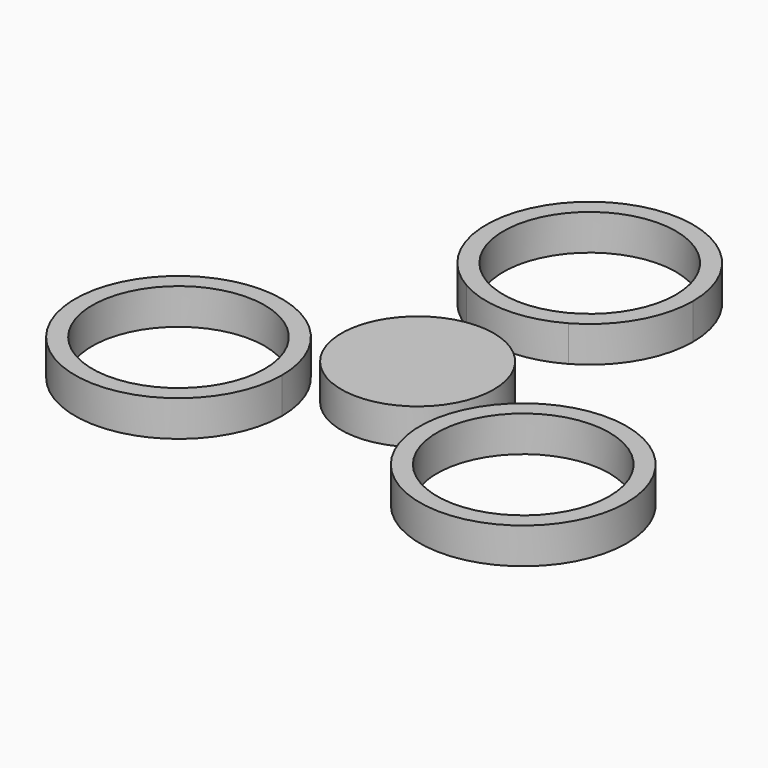
from build123d import *

# Parameters (mm, degrees)
F0_R     = 12.5
F0_R_2   = 15
F0_R_3   = 11.05
F1_DEPTH = 5.2


with BuildPart() as f1:
    # F0 (on Top) → F1 (new body)
    with BuildSketch(Plane.XY):
        with BuildLine():
            ThreePointArc((7.272041, 17.968416), (12.862939, 23.469045), (14.913441, 31.039415))
            ThreePointArc((14.913441, 31.039415), (-7.61833, 44.011401), (-7.522882, 18.012478))
            ThreePointArc((-7.522882, 18.012478), (-0.131231, 16.039482), (7.272041, 17.968416))
        make_face()
        with Locations((-0.086559, 31.039415)):
            Circle(F0_R, mode=Mode.SUBTRACT)
        with BuildLine():
            ThreePointArc((-10.086559, -12.261855), (-11.771198, -5.355252), (-16.446714, 0))
            ThreePointArc((-16.446714, 0), (-38.40192, -19.168458), (-10.086559, -12.261855))
        make_face()
        with Locations((-25.086559, -12.261855)):
            Circle(F0_R, mode=Mode.SUBTRACT)
        with Locations((24.913441, -12.261855)):
            Circle(F0_R_2)
        with Locations((24.913441, -12.261855)):
            Circle(F0_R, mode=Mode.SUBTRACT)
        with Locations((-0.215517, 0)):
            Circle(F0_R_3)
    extrude(amount=F1_DEPTH)


solid = f1.part
